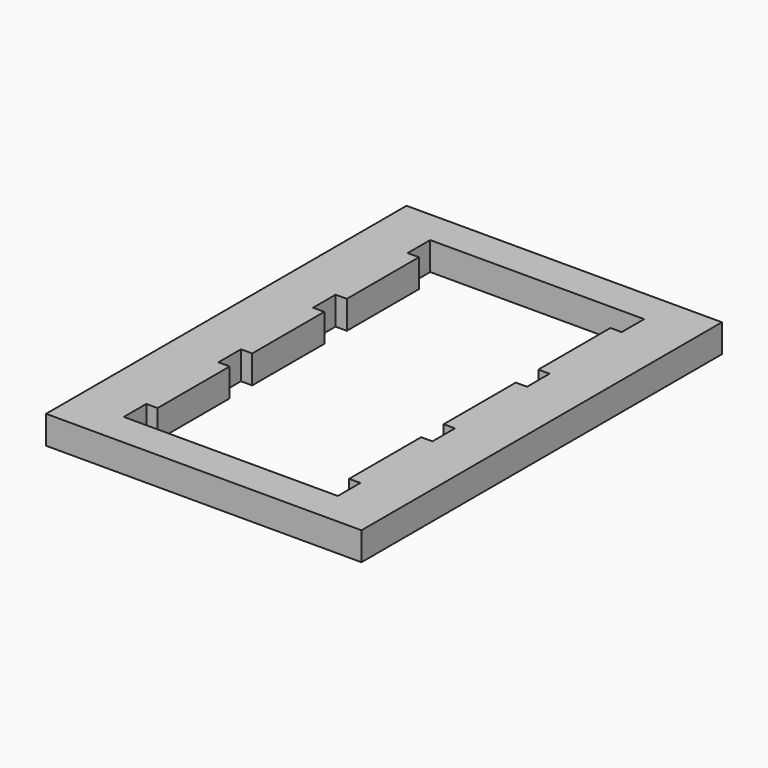
from build123d import *

# Parameters (mm, degrees)
F0_W     = 28
F0_H     = 40
F1_DEPTH = 2.5


with BuildPart() as f1:
    # F0 (on Top) → F1 (new body)
    with BuildSketch(Plane.XY):
        Rectangle(F0_W, F0_H)
        Polygon((9.5, -14.5), (9.5, -17), (-9.5, -17), (-9.5, -14.5), (-8.5, -14.5), (-8.5, -6.5), (-9.5, -6.5), (-9.5, -4), (-8.5, -4), (-8.5, 4), (-9.5, 4), (-9.5, 6.5), (-8.5, 6.5), (-8.5, 14.5), (-9.5, 14.5), (-9.5, 17), (9.5, 17), (9.5, 14.5), (8.5, 14.5), (8.5, 6.5), (9.5, 6.5), (9.5, 4), (8.5, 4), (8.5, -4), (9.5, -4), (9.5, -6.5), (8.5, -6.5), (8.5, -14.5), align=None, mode=Mode.SUBTRACT)
    extrude(amount=F1_DEPTH)


solid = f1.part
